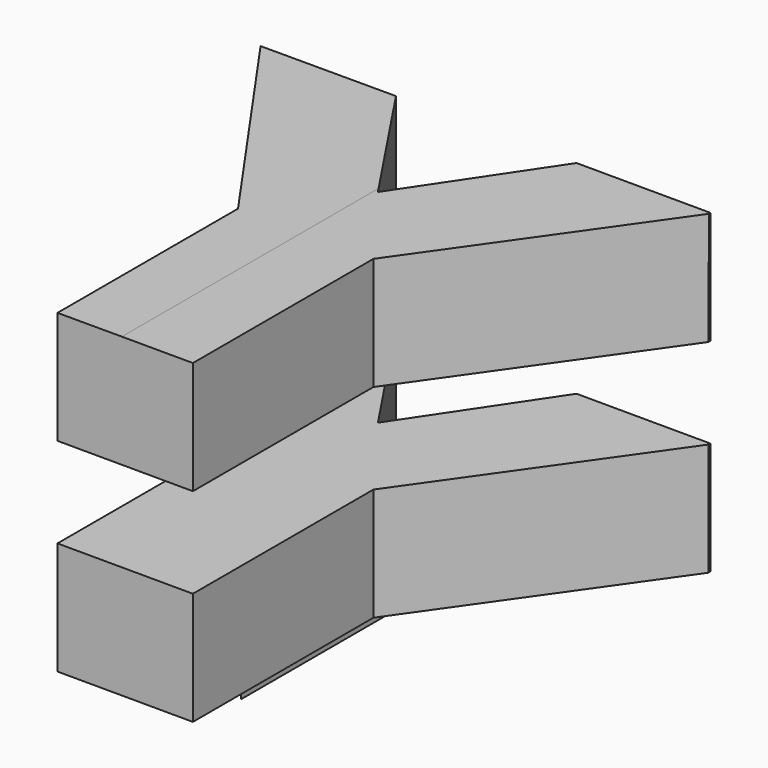
from build123d import *

# Parameters (mm, degrees)
F2_DEPTH = 50
F3_DEPTH = 50


with BuildPart() as f2:
    # F0 (on Top) → F2 (new body, symmetric)
    with BuildSketch(Plane.XY):
        Polygon((-20, 50), (-50, 50), (-15, 0), (-15, -50), (15, -50), (15, 0), (50, 50), (20, 50), (0, 20), align=None)
    extrude(amount=F2_DEPTH, both=True)

    # F1 (on Front) → F3 (intersect, symmetric)
    with BuildSketch(Plane.XZ):
        Polygon((49.69334, 49.889997), (-50.306422, 50.108123), (-49.69334, -49.889997), (-19.693412, -49.955435), (-19.627981, -19.958902), (49.638809, -20.109991), (49.638809, 4.890009), (-19.671607, 5.041194), (-19.627981, 25.041146), (49.638809, 24.890057), align=None)
    extrude(amount=F3_DEPTH, both=True, mode=Mode.INTERSECT)


solid = f2.part
